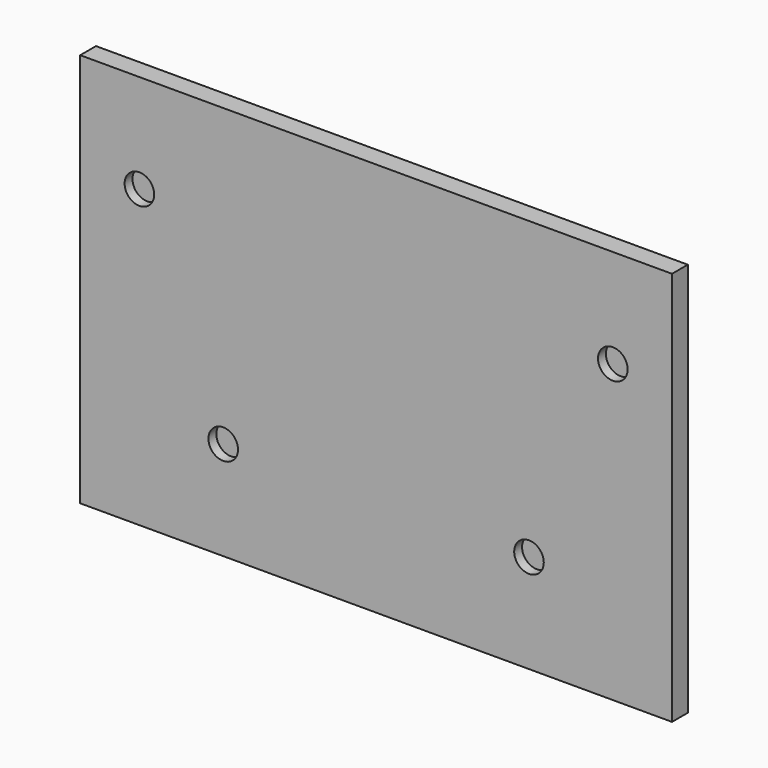
from build123d import *

# Parameters (mm, degrees)
F0_W     = 30
F0_H     = 20
F1_DEPTH = 0.5
F2_D     = 1.5
F2_DEPTH = 0.501


with BuildPart() as f1:
    # F0 (on Front) → F1 (new body, symmetric)
    with BuildSketch(Plane.XZ):
        Rectangle(F0_W, F0_H)
    extrude(amount=F1_DEPTH, both=True)

    # F2 (through all, one way)
    with BuildSketch(Plane(origin=(0, 0, 0), x_dir=(1, 0, 0), z_dir=(0, 1, 0))):
        with Locations((-12, -5), (12, -5), (7.75, 5), (-7.75, 5)):
            Circle(F2_D / 2)
    extrude(amount=-F2_DEPTH, mode=Mode.SUBTRACT)


solid = f1.part
